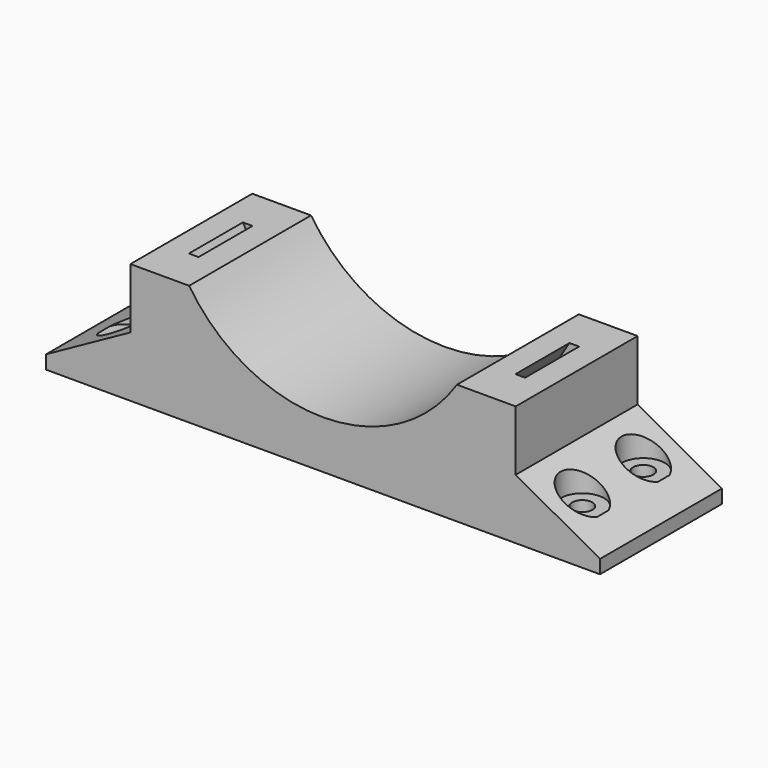
from build123d import *

# Parameters (mm, degrees)
F1_DEPTH = 40.1828
F2_W     = 2.54
F2_H     = 17.78
F5_R     = 2.667
F6_DEPTH = 25.4
F8_R     = 5.715
F9_DEPTH = 25.4


with BuildPart() as f1:
    # F0 (on Front) → F1 (new body)
    with BuildSketch(Plane.XZ):
        with BuildLine():
            Line((-50.8, 0), (50.8, 0))
            Line((50.8, 0), (50.8, 15.875))
            Line((50.8, 15.875), (50.8, 31.75))
            Line((50.8, 31.75), (35.305086, 31.75))
            ThreePointArc((35.305086, 31.75), (0, 12.7), (-35.305086, 31.75))
            Line((-35.305086, 31.75), (-50.8, 31.75))
            Line((-50.8, 31.75), (-50.8, 15.875))
            Line((-50.8, 15.875), (-50.8, 0))
        make_face()
        Polygon((-73.025, 0), (-50.8, 0), (-50.8, 15.875), (-73.025, 3.578278), align=None)
        Polygon((50.8, 15.875), (50.8, 0), (73.025, 0), (73.025, 3.578278), align=None)
    extrude(amount=F1_DEPTH)

    # F2 (on face) → F4 (revolve, cut)
    with BuildSketch(Plane.XY.offset(31.75)):
        with Locations((-43.052543, -20.0914)):
            Rectangle(F2_W, F2_H)
    revolve(axis=Axis((0, -22.422592, 54.9402), (0, -1, 0)), mode=Mode.SUBTRACT)

    # F5 (on Top) → F6 (cut)
    with BuildSketch(Plane.XY):
        with Locations((-60.325, -30.1371)):
            Circle(F5_R)
        with Locations((-60.325, -10.0457)):
            Circle(F5_R)
        with Locations((60.325, -30.1371)):
            Circle(F5_R)
        with Locations((60.325, -10.0457)):
            Circle(F5_R)
    extrude(amount=F6_DEPTH, mode=Mode.SUBTRACT)

    # F8 (on offset) → F9 (cut)
    with BuildSketch(Plane.XY.offset(7.62)):
        with Locations((60.325, -30.1371)):
            Circle(F8_R)
        with Locations((60.325, -10.0457)):
            Circle(F8_R)
        with Locations((-60.325, -30.1371)):
            Circle(F8_R)
        with Locations((-60.325, -10.0457)):
            Circle(F8_R)
    extrude(amount=F9_DEPTH, mode=Mode.SUBTRACT)


solid = f1.part
